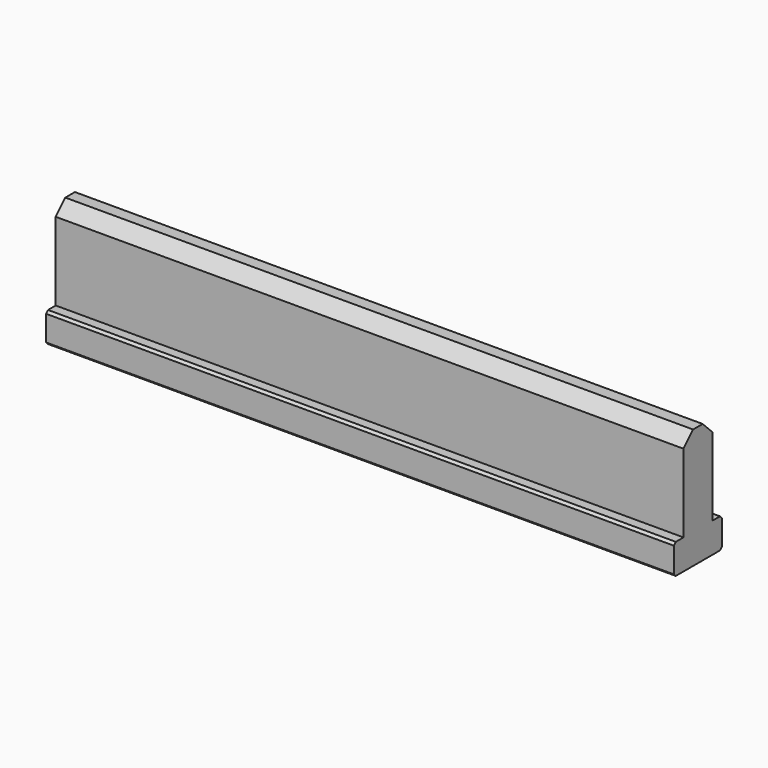
from build123d import *

# Parameters (mm, degrees)
BOX029_W                      = 6
BOX029_H                      = 15
BOX029_DEPTH                  = 104.5
BOX028_W                      = 10
BOX028_H                      = 5
BOX028_DEPTH                  = 104.5
CHAMFER005026_SIZE            = 2
CHAMFER005027_SIZE            = 0.4
CHAMFER005027_ROLL_ANGLE      = 90
CHAMFER005027_PLACEMENT_ANGLE = -90


with BuildPart() as cube029:
    # Box029 → Box029 (new body)
    with BuildSketch(Plane(origin=(-3, 5, 0), x_dir=(1, 0, 0), z_dir=(0, 0, 1))):
        with Locations((3, 7.5)):
            Rectangle(BOX029_W, BOX029_H)
    extrude(amount=BOX029_DEPTH)


with BuildPart() as f_104d5_channel:
    # Box028 → Box028 (new body)
    with BuildSketch(Plane(origin=(-5, 0, 0), x_dir=(1, 0, 0), z_dir=(0, 0, 1))):
        with Locations((5, 2.5)):
            Rectangle(BOX028_W, BOX028_H)
    extrude(amount=BOX028_DEPTH)

    # Fusion020006007003002013006002005002002015002016009: union Cube029
    add(cube029.part)

    # Chamfer005026
    chamfer005026_edges = [f_104d5_channel.edges().sort_by_distance(p)[0] for p in [
        (-3, 20, 52.25),
        (3, 20, 52.25),
    ]]
    chamfer(chamfer005026_edges, length=CHAMFER005026_SIZE)

    # Chamfer005027
    chamfer005027_edges = [f_104d5_channel.edges().sort_by_distance(p)[0] for p in [
        (-5, 5, 52.25),
        (-5, 0, 52.25),
        (5, 5, 52.25),
        (5, 0, 52.25),
    ]]
    chamfer(chamfer005027_edges, length=CHAMFER005027_SIZE)


with BuildPart() as f_104d5_channel_1:
    # Chamfer005027 roll: moved
    add(f_104d5_channel.part.rotate(Axis((0, 0, 0), (1, 0, 0)), CHAMFER005027_ROLL_ANGLE))


with BuildPart() as f_104d5_channel_2:
    # Chamfer005027 placement: moved
    add(f_104d5_channel_1.part.moved(Location((0, -16, 0))).rotate(Axis((0, -16, 0), (0, 0, 1)), CHAMFER005027_PLACEMENT_ANGLE))


solid = f_104d5_channel_2.part
